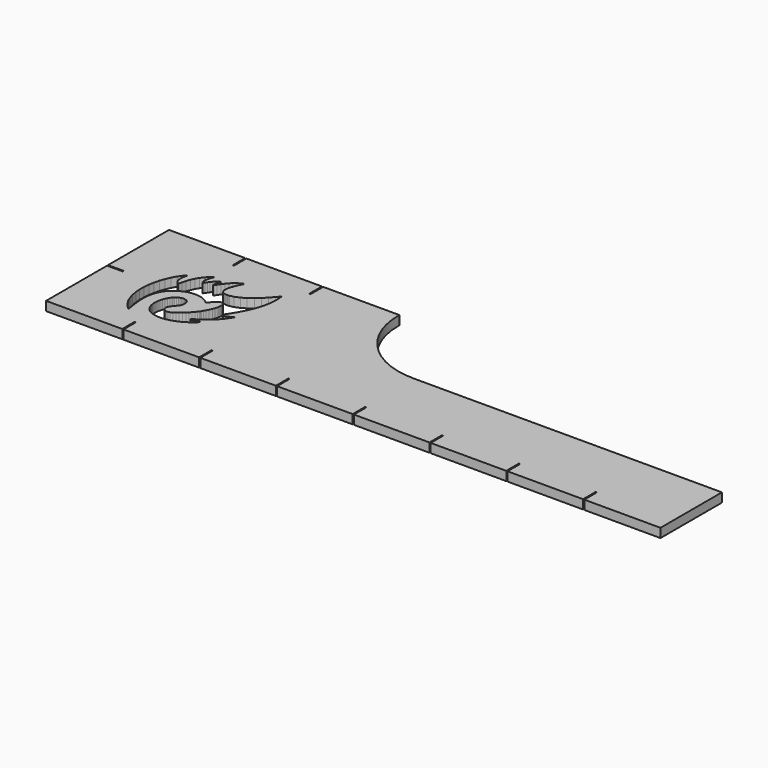
from build123d import *

# Parameters (mm, degrees)
F1_DEPTH = 1.5
F2_R     = 25
F4_DEPTH = 3


with BuildPart() as f1:
    # F0 (on Top) → F1 (new body, symmetric)
    with BuildSketch(Plane.XY):
        with BuildLine():
            Line((-76.2, 25.2), (-76.2, 0))
            Line((-76.2, 0), (-51, 0))
            Line((-51, 0), (-51, 5))
            ThreePointArc((-51, 5), (-50.8, 5.2), (-50.6, 5))
            Line((-50.6, 5), (-50.6, 0))
            Line((-50.6, 0), (-25.6, 0))
            Line((-25.6, 0), (-25.6, 5))
            ThreePointArc((-25.6, 5), (-25.4, 5.2), (-25.2, 5))
            Line((-25.2, 5), (-25.2, 0))
            Line((-25.2, 0), (-0.2, 0))
            Line((-0.2, 0), (-0.2, 5))
            ThreePointArc((-0.2, 5), (0, 5.2), (0.2, 5))
            Line((0.2, 5), (0.2, 0))
            Line((0.2, 0), (25.2, 0))
            Line((25.2, 0), (25.2, 5))
            ThreePointArc((25.2, 5), (25.4, 5.2), (25.6, 5))
            Line((25.6, 5), (25.6, 0))
            Line((25.6, 0), (50.6, 0))
            Line((50.6, 0), (50.6, 5))
            ThreePointArc((50.6, 5), (50.8, 5.2), (51, 5))
            Line((51, 5), (51, 0))
            Line((51, 0), (76, 0))
            Line((76, 0), (76, 5))
            ThreePointArc((76, 5), (76.2, 5.2), (76.4, 5))
            Line((76.4, 5), (76.4, 0))
            Line((76.4, 0), (101.4, 0))
            Line((101.4, 0), (101.4, 5))
            ThreePointArc((101.4, 5), (101.6, 5.2), (101.8, 5))
            Line((101.8, 5), (101.8, 0))
            Line((101.8, 0), (127, 0))
            Line((127, 0), (127, 25.4))
            Line((127, 25.4), (0, 25.4))
            Line((0, 25.4), (0, 50.8))
            Line((0, 50.8), (-25.2, 50.8))
            Line((-25.2, 50.8), (-25.2, 45.8))
            ThreePointArc((-25.2, 45.8), (-25.4, 45.6), (-25.6, 45.8))
            Line((-25.6, 45.8), (-25.6, 50.8))
            Line((-25.6, 50.8), (-50.6, 50.8))
            Line((-50.6, 50.8), (-50.6, 45.8))
            ThreePointArc((-50.6, 45.8), (-50.8, 45.6), (-51, 45.8))
            Line((-51, 45.8), (-51, 50.8))
            Line((-51, 50.8), (-76.2, 50.8))
            Line((-76.2, 50.8), (-76.2, 25.6))
            Line((-76.2, 25.6), (-71.2, 25.6))
            ThreePointArc((-71.2, 25.6), (-71, 25.4), (-71.2, 25.2))
            Line((-71.2, 25.2), (-76.2, 25.2))
        make_face()
    extrude(amount=F1_DEPTH, both=True)

    # F2
    f2_edges = [f1.edges().sort_by_distance(p)[0] for p in [
        (0, 25.4, 0),
    ]]
    fillet(f2_edges, radius=F2_R)

    # F3 (on face) → F4 (cut, through all)
    with BuildSketch(Plane.XY.offset(1.5)):
        Polygon((-30.128828, 39.315158), (-30.212863, 39.909654), (-30.474787, 39.59213), (-31.274484, 38.6506), (-32.457468, 37.332428), (-33.748914, 36.019044), (-35.136268, 34.774794), (-36.606337, 33.664119), (-38.14637, 32.751513), (-39.743175, 32.10127), (-40.969886, 31.811888), (-41.383903, 31.77715), (-41.583535, 31.760441), (-42.18707, 31.771581), (-42.825049, 31.896167), (-43.311229, 32.136838), (-43.658996, 32.47928), (-43.882469, 32.910006), (-43.995134, 33.414458), (-44.010475, 33.978761), (-43.942075, 34.588941), (-43.803711, 35.230926), (-43.608624, 35.890452), (-43.370835, 36.553642), (-43.103927, 37.206523), (-42.821092, 37.834682), (-42.536449, 38.424244), (-42.263141, 38.961284), (-42.077873, 39.314327), (-42.015043, 39.431536), (-42.279068, 39.349358), (-43.045396, 39.019815), (-43.945495, 38.484631), (-44.739916, 37.845333), (-45.45294, 37.120387), (-46.108753, 36.329435), (-46.731684, 35.491776), (-47.345577, 34.626072), (-47.814461, 33.968208), (-47.974566, 33.751574), (-48.025183, 33.938454), (-48.065197, 34.528553), (-47.939047, 35.273628), (-47.641115, 35.980545), (-47.333362, 36.484997), (-47.216154, 36.642464), (-47.376601, 36.59605), (-47.839916, 36.395637), (-48.393616, 36.05217), (-48.888248, 35.630677), (-49.33544, 35.148748), (-49.746037, 34.625242), (-50.131375, 34.077648), (-50.502495, 33.524192), (-50.776878, 33.117308), (-50.87044, 32.983146), (-50.957895, 33.10353), (-51.15352, 33.512515), (-51.287145, 34.083218), (-51.298724, 34.682502), (-51.215275, 35.296981), (-51.063671, 35.913806), (-50.87044, 36.51949), (-50.663138, 37.10104), (-50.51554, 37.508461), (-50.468295, 37.64492), (-50.746391, 37.445631), (-51.532604, 36.780535), (-52.453126, 35.826302), (-53.239631, 34.789598), (-53.90204, 33.678728), (-54.449926, 32.501021), (-54.893649, 31.264734), (-55.242783, 29.977538), (-55.451062, 28.981483), (-55.506711, 28.647201), (-55.678005, 28.759573), (-56.138143, 29.177597), (-56.56545, 29.784649), (-56.815649, 30.452578), (-56.916686, 31.165358), (-56.895433, 31.907306), (-56.779348, 32.662201), (-56.595888, 33.414751), (-56.431532, 33.966547), (-56.371926, 34.148687), (-56.643622, 33.884173), (-57.390065, 33.01974), (-58.306384, 31.727267), (-59.114339, 30.294574), (-59.807205, 28.745795), (-60.37843, 27.104725), (-60.821884, 25.395353), (-61.130423, 23.640836), (-61.29795, 21.865652), (-61.317825, 20.093449), (-61.183174, 18.347727), (-60.88789, 16.652572), (-60.425079, 15.031386), (-59.788385, 13.5086), (-58.971187, 12.107517), (-57.967119, 10.852128), (-57.088957, 10.011048), (-56.76899, 9.765882), (-56.801284, 9.982173), (-56.900465, 10.630804), (-57.035604, 11.519812), (-57.167422, 12.427924), (-57.288002, 13.350937), (-57.390065, 14.283429), (-57.46638, 15.221197), (-57.509325, 16.159063), (-57.511426, 17.092581), (-57.465305, 18.016913), (-57.363486, 18.927175), (-57.19869, 19.818529), (-56.963002, 20.686382), (-56.649436, 21.526094), (-56.250222, 22.332729), (-55.758277, 23.10145), (-55.324131, 23.655151), (-55.165882, 23.827422), (-55.022974, 23.983326), (-54.566549, 24.425729), (-53.919531, 24.967802), (-53.23113, 25.450708), (-52.507211, 25.871174), (-51.754123, 26.226319), (-50.978073, 26.512623), (-50.184923, 26.727058), (-49.381317, 26.86679), (-48.573118, 26.927959), (-47.766239, 26.90783), (-46.967274, 26.803373), (-46.181892, 26.610924), (-45.416932, 26.327844), (-44.677916, 25.950714), (-43.97095, 25.476456), (-43.461025, 25.054426), (-43.302776, 24.901551), (-43.255531, 24.971515), (-43.108715, 25.177986), (-42.878108, 25.484175), (-42.617014, 25.808344), (-42.331248, 26.138571), (-42.026964, 26.46357), (-41.710466, 26.771274), (-41.387617, 27.050445), (-41.064767, 27.288966), (-40.747439, 27.475601), (-40.442373, 27.598087), (-40.155043, 27.644941), (-39.891848, 27.604731), (-39.658555, 27.465537), (-39.46161, 27.215534), (-39.307123, 26.843143), (-39.218301, 26.464645), (-39.200517, 26.33659), (-39.177212, 26.166957), (-39.187276, 25.646626), (-39.308687, 24.885037), (-39.537975, 24.081431), (-39.847584, 23.263413), (-40.211229, 22.459953), (-40.601404, 21.699782), (-40.99109, 21.011332), (-41.260099, 20.568196), (-41.353416, 20.422943), (-41.405694, 20.341791), (-41.573959, 20.10537), (-41.895733, 19.683389), (-42.305549, 19.180012), (-42.79036, 18.618885), (-43.336439, 18.022679), (-43.930447, 17.414698), (-44.559437, 16.818491), (-45.209337, 16.256827), (-45.867495, 15.753205), (-46.52018, 15.330442), (-47.15386, 15.012088), (-47.755343, 14.821544), (-48.311438, 14.781237), (-48.808708, 14.915106), (-49.233621, 15.245919), (-49.508785, 15.650116), (-49.572642, 15.796688), (-49.629659, 15.927137), (-49.686919, 16.368222), (-49.569759, 16.935407), (-49.282136, 17.496338), (-48.884535, 18.0474), (-48.437588, 18.586786), (-48.002659, 19.111905), (-47.639796, 19.619533), (-47.448128, 19.979709), (-47.409678, 20.107227), (-47.365462, 20.254874), (-47.2719, 20.709198), (-47.233156, 21.243845), (-47.284554, 21.71141), (-47.416615, 22.11248), (-47.619667, 22.447006), (-47.884718, 22.715526), (-48.201998, 22.918284), (-48.562467, 23.055329), (-48.956648, 23.127149), (-49.374916, 23.134331), (-49.808037, 23.076533), (-50.246776, 22.954292), (-50.68146, 22.768243), (-51.102904, 22.518045), (-51.50158, 22.204429), (-51.783047, 21.927408), (-51.867863, 21.827544), (-51.978427, 21.697681), (-52.281929, 21.283859), (-52.647676, 20.68692), (-52.962366, 20.046302), (-53.222629, 19.370898), (-53.425143, 18.670088), (-53.567513, 17.952177), (-53.645929, 17.226988), (-53.657606, 16.503654), (-53.599613, 15.790581), (-53.468333, 15.097442), (-53.261324, 14.433177), (-52.975362, 13.806874), (-52.60688, 13.227621), (-52.153093, 12.704359), (-51.61102, 12.246321), (-51.142136, 11.9458), (-50.977242, 11.862547), (-50.771553, 11.758627), (-50.125854, 11.50237), (-49.235184, 11.256862), (-48.314125, 11.11928), (-47.369957, 11.082441), (-46.411473, 11.139995), (-45.446882, 11.284711), (-44.484148, 11.509748), (-43.531771, 11.808706), (-42.597667, 12.174257), (-41.690044, 12.599462), (-40.817207, 13.077874), (-39.987267, 13.602455), (-39.208774, 14.166513), (-38.489349, 14.762915), (-37.837543, 15.385016), (-37.398608, 15.860007), (-37.261563, 16.025732), (-37.362307, 15.966614), (-37.666053, 15.7919), (-38.086422, 15.566863), (-38.519836, 15.3686), (-38.962826, 15.214064), (-39.412069, 15.120502), (-39.864, 15.105356), (-40.315393, 15.185971), (-40.658176, 15.319059), (-40.763122, 15.379202), (-40.421755, 15.577172), (-39.410213, 16.193263), (-38.137869, 17.032731), (-36.946922, 17.916707), (-35.837909, 18.864344), (-34.811562, 19.894404), (-33.868419, 21.026234), (-33.008774, 22.278399), (-32.411395, 23.314029), (-32.233505, 23.66971), (-32.324087, 23.605854), (-32.588698, 23.40334), (-33.007504, 23.080539), (-33.470281, 22.746795), (-33.958317, 22.447299), (-34.451581, 22.22749), (-34.931067, 22.132609), (-35.377233, 22.208142), (-35.692069, 22.409337), (-35.770583, 22.499186), (-35.436594, 22.988785), (-34.469902, 24.481085), (-33.267523, 26.509447), (-32.201406, 28.588865), (-31.30844, 30.723737), (-30.625854, 32.918752), (-30.191121, 35.178502), (-30.041129, 37.507337), align=None)
    extrude(amount=-F4_DEPTH, mode=Mode.SUBTRACT)


solid = f1.part
